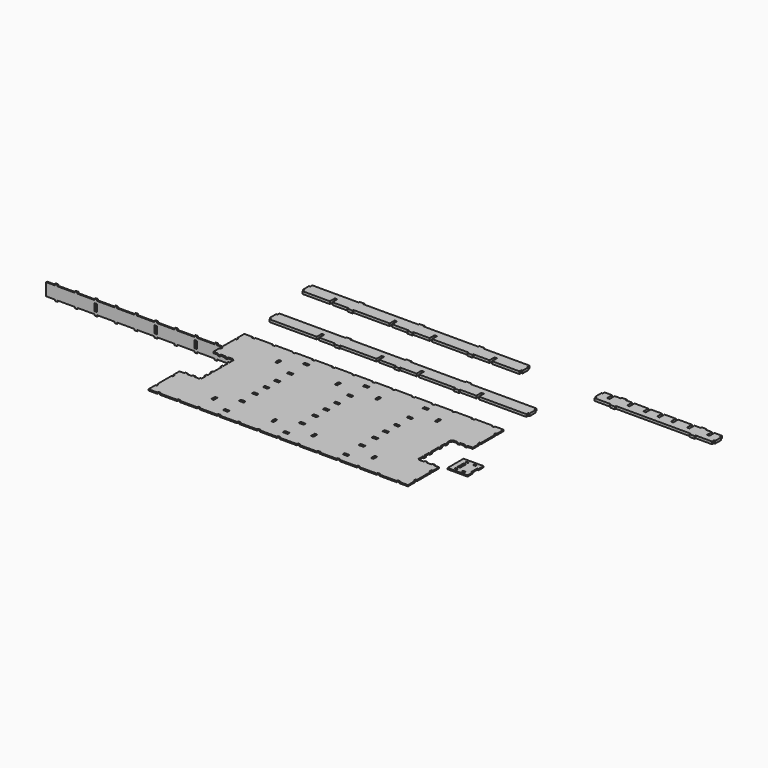
from build123d import *

# Parameters (mm, degrees)
F0_W      = 6.35
F0_H      = 12.192
F0_W_2    = 12.192
F0_H_2    = 6.35
F1_DEPTH  = 3.175
F3_DEPTH  = 6.35
F5_DEPTH  = 6.35
F7_DEPTH  = 6.35
F8_W      = 6.35
F8_H      = 3.175
F8_H_2    = 18.542
F9_DEPTH  = 3.175
F10_W     = 6.35
F10_H     = 18.542
F11_DEPTH = 3.175


with BuildPart() as f1:
    # F0 (on Top) → F1 (new body)
    with BuildSketch(Plane.XY):
        Polygon((0, -79.375), (0, -98.425), (12.7, -98.425), (12.7, -101.6), (19.05, -101.6), (19.05, -98.425), (31.75, -98.425), (31.75, -101.6), (38.1, -101.6), (38.1, -98.425), (50.8, -98.425), (50.8, -101.6), (53.975, -101.6), (53.975, -114.3), (50.8, -114.3), (50.8, -120.65), (53.975, -120.65), (53.975, -133.35), (50.8, -133.35), (50.8, -139.7), (53.975, -139.7), (53.975, -152.4), (53.975, -165.1), (50.8, -165.1), (50.8, -171.45), (53.975, -171.45), (53.975, -184.15), (50.8, -184.15), (50.8, -190.5), (53.975, -190.5), (53.975, -203.2), (50.8, -203.2), (50.8, -206.375), (38.1, -206.375), (38.1, -203.2), (31.75, -203.2), (31.75, -206.375), (19.05, -206.375), (19.05, -203.2), (12.7, -203.2), (12.7, -206.375), (0, -206.375), (0, -225.425), (3.175, -225.425), (3.175, -231.775), (0, -231.775), (0, -254), (0, -276.225), (3.175, -276.225), (3.175, -282.575), (0, -282.575), (0, -304.8), (22.225, -304.8), (22.225, -301.625), (28.575, -301.625), (28.575, -304.8), (50.8, -304.8), (73.025, -304.8), (73.025, -301.625), (79.375, -301.625), (79.375, -304.8), (101.6, -304.8), (123.825, -304.8), (123.825, -301.625), (130.175, -301.625), (130.175, -304.8), (152.4, -304.8), (174.625, -304.8), (174.625, -301.625), (180.975, -301.625), (180.975, -304.8), (203.2, -304.8), (225.425, -304.8), (225.425, -301.625), (231.775, -301.625), (231.775, -304.8), (254, -304.8), (276.225, -304.8), (276.225, -301.625), (282.575, -301.625), (282.575, -304.8), (304.8, -304.8), (327.025, -304.8), (327.025, -301.625), (333.375, -301.625), (333.375, -304.8), (355.6, -304.8), (377.825, -304.8), (377.825, -301.625), (384.175, -301.625), (384.175, -304.8), (406.4, -304.8), (428.625, -304.8), (428.625, -301.625), (434.975, -301.625), (434.975, -304.8), (457.2, -304.8), (479.425, -304.8), (479.425, -301.625), (485.775, -301.625), (485.775, -304.8), (508, -304.8), (530.225, -304.8), (530.225, -301.625), (536.575, -301.625), (536.575, -304.8), (558.8, -304.8), (581.025, -304.8), (581.025, -301.625), (587.375, -301.625), (587.375, -304.8), (609.6, -304.8), (631.825, -304.8), (631.825, -301.625), (638.175, -301.625), (638.175, -304.8), (660.4, -304.8), (660.4, -282.575), (657.225, -282.575), (657.225, -276.225), (660.4, -276.225), (660.4, -254), (660.4, -231.775), (657.225, -231.775), (657.225, -225.425), (660.4, -225.425), (660.4, -206.375), (647.7, -206.375), (647.7, -203.2), (641.35, -203.2), (641.35, -206.375), (628.65, -206.375), (628.65, -203.2), (622.3, -203.2), (622.3, -206.375), (609.6, -206.375), (609.6, -203.2), (606.425, -203.2), (606.425, -190.5), (609.6, -190.5), (609.6, -184.15), (606.425, -184.15), (606.425, -171.45), (609.6, -171.45), (609.6, -165.1), (606.425, -165.1), (606.425, -152.4), (606.425, -139.7), (609.6, -139.7), (609.6, -133.35), (606.425, -133.35), (606.425, -120.65), (609.6, -120.65), (609.6, -114.3), (606.425, -114.3), (606.425, -101.6), (609.6, -101.6), (609.6, -98.425), (622.3, -98.425), (622.3, -101.6), (628.65, -101.6), (628.65, -98.425), (641.35, -98.425), (641.35, -101.6), (647.7, -101.6), (647.7, -98.425), (660.4, -98.425), (660.4, -79.375), (657.225, -79.375), (657.225, -73.025), (660.4, -73.025), (660.4, -50.8), (660.4, -28.575), (657.225, -28.575), (657.225, -22.225), (660.4, -22.225), (660.4, 0), (638.175, 0), (638.175, -3.175), (631.825, -3.175), (631.825, 0), (609.6, 0), (587.375, 0), (587.375, -3.175), (581.025, -3.175), (581.025, 0), (558.8, 0), (536.575, 0), (536.575, -3.175), (530.225, -3.175), (530.225, 0), (508, 0), (485.775, 0), (485.775, -3.175), (479.425, -3.175), (479.425, 0), (457.2, 0), (434.975, 0), (434.975, -3.175), (428.625, -3.175), (428.625, 0), (406.4, 0), (384.175, 0), (384.175, -3.175), (377.825, -3.175), (377.825, 0), (355.6, 0), (333.375, 0), (333.375, -3.175), (327.025, -3.175), (327.025, 0), (304.8, 0), (282.575, 0), (282.575, -3.175), (276.225, -3.175), (276.225, 0), (254, 0), (231.775, 0), (231.775, -3.175), (225.425, -3.175), (225.425, 0), (203.2, 0), (180.975, 0), (180.975, -3.175), (174.625, -3.175), (174.625, 0), (152.4, 0), (130.175, 0), (130.175, -3.175), (123.825, -3.175), (123.825, 0), (101.6, 0), (79.375, 0), (79.375, -3.175), (73.025, -3.175), (73.025, 0), (50.8, 0), (28.575, 0), (28.575, -3.175), (22.225, -3.175), (22.225, 0), (0, 0), (0, -22.225), (3.175, -22.225), (3.175, -28.575), (0, -28.575), (0, -50.8), (0, -73.025), (3.175, -73.025), (3.175, -79.375), align=None)
        with Locations((127, -254)):
            Rectangle(F0_W, F0_H, mode=Mode.SUBTRACT)
        with Locations((177.8, -279.4)):
            Rectangle(F0_W_2, F0_H_2, mode=Mode.SUBTRACT)
        with Locations((279.4, -254)):
            Rectangle(F0_W, F0_H, mode=Mode.SUBTRACT)
        with Locations((177.8, -228.6)):
            Rectangle(F0_W_2, F0_H_2, mode=Mode.SUBTRACT)
        with Locations((177.8, -187.325001)):
            Rectangle(F0_W_2, F0_H_2, mode=Mode.SUBTRACT)
        with Locations((330.2, -279.4)):
            Rectangle(F0_W_2, F0_H_2, mode=Mode.SUBTRACT)
        with Locations((482.6, -279.4)):
            Rectangle(F0_W_2, F0_H_2, mode=Mode.SUBTRACT)
        with Locations((381, -254)):
            Rectangle(F0_W, F0_H, mode=Mode.SUBTRACT)
        with Locations((533.4, -254)):
            Rectangle(F0_W, F0_H, mode=Mode.SUBTRACT)
        with Locations((330.2, -228.6)):
            Rectangle(F0_W_2, F0_H_2, mode=Mode.SUBTRACT)
        with Locations((482.6, -228.6)):
            Rectangle(F0_W_2, F0_H_2, mode=Mode.SUBTRACT)
        with Locations((330.2, -187.325001)):
            Rectangle(F0_W_2, F0_H_2, mode=Mode.SUBTRACT)
        with Locations((482.6, -187.325001)):
            Rectangle(F0_W_2, F0_H_2, mode=Mode.SUBTRACT)
        with Locations((177.8, -152.4)):
            Rectangle(F0_W_2, F0_H_2, mode=Mode.SUBTRACT)
        with Locations((177.8, -117.475003)):
            Rectangle(F0_W_2, F0_H_2, mode=Mode.SUBTRACT)
        with Locations((127, -50.8)):
            Rectangle(F0_W, F0_H, mode=Mode.SUBTRACT)
        with Locations((177.8, -76.2)):
            Rectangle(F0_W_2, F0_H_2, mode=Mode.SUBTRACT)
        with Locations((279.408315, -51.765317)):
            Rectangle(F0_W, F0_H, mode=Mode.SUBTRACT)
        with Locations((177.8, -25.4)):
            Rectangle(F0_W_2, F0_H_2, mode=Mode.SUBTRACT)
        with Locations((330.2, -152.4)):
            Rectangle(F0_W_2, F0_H_2, mode=Mode.SUBTRACT)
        with Locations((330.2, -117.475003)):
            Rectangle(F0_W_2, F0_H_2, mode=Mode.SUBTRACT)
        with Locations((482.6, -152.4)):
            Rectangle(F0_W_2, F0_H_2, mode=Mode.SUBTRACT)
        with Locations((482.6, -117.475003)):
            Rectangle(F0_W_2, F0_H_2, mode=Mode.SUBTRACT)
        with Locations((330.2, -76.2)):
            Rectangle(F0_W_2, F0_H_2, mode=Mode.SUBTRACT)
        with Locations((381, -50.8)):
            Rectangle(F0_W, F0_H, mode=Mode.SUBTRACT)
        with Locations((482.6, -76.2)):
            Rectangle(F0_W_2, F0_H_2, mode=Mode.SUBTRACT)
        with Locations((330.2, -25.4)):
            Rectangle(F0_W_2, F0_H_2, mode=Mode.SUBTRACT)
        with Locations((482.6, -25.4)):
            Rectangle(F0_W_2, F0_H_2, mode=Mode.SUBTRACT)
        with Locations((533.4, -50.8)):
            Rectangle(F0_W, F0_H, mode=Mode.SUBTRACT)
    extrude(amount=F1_DEPTH)


with BuildPart() as f3:
    # F2 (on Top) → F3 (new body)
    with BuildSketch(Plane.XY):
        Polygon((3.175, 82.040687), (3.175, 75.690687), (123.825, 75.690687), (123.825, 91.565687), (130.175, 91.565687), (130.175, 75.690687), (171.45, 75.690687), (171.45, 72.515687), (184.15, 72.515687), (184.15, 75.690687), (276.225, 75.690687), (276.225, 91.565687), (282.575, 91.565687), (282.575, 75.690687), (323.85, 75.690687), (323.85, 72.515687), (336.55, 72.515687), (336.55, 75.690687), (377.825, 75.690687), (377.825, 91.565687), (384.175, 91.565687), (384.175, 75.690687), (476.25, 75.690687), (476.25, 72.515687), (488.95, 72.515687), (488.95, 75.690687), (530.225, 75.690687), (530.225, 91.565687), (536.575, 91.565687), (536.575, 75.690687), (657.225, 75.690687), (657.225, 82.040687), (660.408766, 82.040687), (660.408766, 101.090687), (657.225, 101.090687), (657.225, 107.440687), (488.95, 107.440687), (488.95, 110.615687), (476.25, 110.615687), (476.25, 107.440687), (336.55, 107.440687), (336.55, 110.615687), (323.85, 110.615687), (323.85, 107.440687), (184.15, 107.440687), (184.15, 110.615687), (171.45, 110.615687), (171.45, 107.440687), (3.175, 107.440687), (3.175, 101.090687), (0, 101.090687), (0, 82.040687), align=None)
    extrude(amount=F3_DEPTH)


with BuildPart() as f5:
    # F4 (on Top) → F5 (new body)
    with BuildSketch(Plane.XY):
        Polygon((96.410373, 246.01257), (96.410373, 242.83757), (-21.064627, 242.83757), (-21.064627, 236.48757), (-24.239627, 236.48757), (-24.239627, 217.43757), (-21.064627, 217.43757), (-21.064627, 211.08757), (48.785373, 211.08757), (48.785373, 226.96257), (55.135373, 226.96257), (55.135373, 211.08757), (96.410373, 211.08757), (96.410373, 207.91257), (109.110373, 207.91257), (109.110373, 211.08757), (201.185373, 211.08757), (201.185373, 226.96257), (207.535373, 226.96257), (207.535373, 211.08757), (248.810373, 211.08757), (248.810373, 207.91257), (261.510373, 207.91257), (261.510373, 211.08757), (302.785373, 211.08757), (302.785373, 226.96257), (309.135373, 226.96257), (309.135373, 211.08757), (401.210373, 211.08757), (401.210373, 207.91257), (413.910373, 207.91257), (413.910373, 211.08757), (455.185373, 211.08757), (455.185373, 226.96257), (461.535373, 226.96257), (461.535373, 211.08757), (531.385373, 211.08757), (531.385373, 217.43757), (534.560373, 217.43757), (534.560373, 236.48757), (531.385373, 236.48757), (531.385373, 242.83757), (413.910373, 242.83757), (413.910373, 246.01257), (401.210373, 246.01257), (401.210373, 242.83757), (261.510373, 242.83757), (261.510373, 246.01257), (248.810373, 246.01257), (248.810373, 242.83757), (109.110373, 242.83757), (109.110373, 246.01257), align=None)
    extrude(amount=F5_DEPTH)


with BuildPart() as f7:
    # F6 (on Top) → F7 (new body)
    with BuildSketch(Plane.XY):
        Polygon((761.759856, 249.198178), (761.759856, 246.023178), (745.884856, 246.023178), (745.884856, 230.148178), (739.534856, 230.148178), (739.534856, 246.023178), (720.484856, 246.023178), (720.484856, 239.673178), (717.309856, 239.673178), (717.309856, 220.623178), (720.484856, 220.623178), (720.484856, 214.273178), (761.759856, 214.273185), (761.759856, 211.098185), (774.459856, 211.098185), (774.459856, 214.273185), (964.959856, 214.273185), (964.959856, 211.098185), (977.659856, 211.098185), (977.659856, 214.273185), (1018.934856, 214.273178), (1018.934856, 220.623178), (1022.109856, 220.623178), (1022.109856, 239.673178), (1018.934866, 239.673178), (1018.934866, 246.023178), (999.884856, 246.023178), (999.884856, 230.148178), (993.534856, 230.148178), (993.534856, 246.023178), (977.659856, 246.023178), (977.659856, 249.198178), (964.959856, 249.198178), (964.959856, 246.023178), (949.084856, 246.023178), (949.084856, 230.148178), (942.734856, 230.148178), (942.734856, 246.023178), (907.809856, 246.023178), (907.809856, 230.148178), (901.459856, 230.148178), (901.459856, 246.023178), (872.884856, 246.023178), (872.884856, 230.148178), (866.534856, 230.148178), (866.534856, 246.023178), (837.959856, 246.023178), (837.959856, 230.148178), (831.609856, 230.148178), (831.609856, 246.023178), (796.684856, 246.023178), (796.684856, 230.148178), (790.334856, 230.148178), (790.334856, 246.023178), (774.459856, 246.023178), (774.459856, 249.198178), align=None)
    extrude(amount=F7_DEPTH)


with BuildPart() as f9:
    # F8 (on Top) → F9 (new body)
    with BuildSketch(Plane.XY):
        Polygon((726.645827, -147.160034), (675.845827, -147.160034), (675.845827, -197.960034), (726.645827, -197.960034), (726.645827, -181.831034), (723.470827, -181.831034), (723.470827, -163.289034), (726.645827, -163.289034), align=None)
        with Locations((691.720827, -190.022534)):
            Rectangle(F8_W, F8_H, mode=Mode.SUBTRACT)
        with Locations((691.720843, -172.560034)):
            Rectangle(F8_W, F8_H_2, mode=Mode.SUBTRACT)
        with Locations((710.770827, -190.022534)):
            Rectangle(F8_W, F8_H, mode=Mode.SUBTRACT)
        with Locations((691.720827, -155.097534)):
            Rectangle(F8_W, F8_H, mode=Mode.SUBTRACT)
        with Locations((710.770827, -155.097534)):
            Rectangle(F8_W, F8_H, mode=Mode.SUBTRACT)
    extrude(amount=F9_DEPTH)


with BuildPart() as f11:
    # F10 (on Front) → F11 (new body)
    with BuildSketch(Plane.XZ):
        Polygon((-428.999945, -42.87017), (-451.224945, -42.87017), (-473.449945, -42.87017), (-473.449945, -39.69517), (-479.799945, -39.69517), (-479.799945, -42.87017), (-502.024945, -42.87017), (-502.024945, -74.62017), (-479.799945, -74.62017), (-479.799945, -77.79517), (-473.449945, -77.79517), (-473.449945, -74.62017), (-451.224945, -74.62017), (-428.999945, -74.62017), (-428.999945, -77.79517), (-422.649945, -77.79517), (-422.649945, -74.62017), (-400.424945, -74.62017), (-378.199945, -74.62017), (-378.199945, -77.79517), (-371.849945, -77.79517), (-371.849945, -74.62017), (-349.624945, -74.62017), (-327.399945, -74.62017), (-327.399945, -77.79517), (-321.049945, -77.79517), (-321.049945, -74.62017), (-298.824945, -74.62017), (-276.599945, -74.62017), (-276.599945, -77.79517), (-270.249945, -77.79517), (-270.249945, -74.62017), (-248.024945, -74.62017), (-225.799945, -74.62017), (-225.799945, -77.79517), (-219.449945, -77.79517), (-219.449945, -74.62017), (-197.224945, -74.62017), (-174.999945, -74.62017), (-174.999945, -77.79517), (-168.649945, -77.79517), (-168.649945, -74.62017), (-146.424945, -74.62017), (-124.199945, -74.62017), (-124.199945, -77.79517), (-117.849945, -77.79517), (-117.849945, -74.62017), (-95.624945, -74.62017), (-73.399945, -74.62017), (-73.399945, -77.79517), (-67.049945, -77.79517), (-67.049945, -74.62017), (-44.824945, -74.62017), (-22.599945, -74.62017), (-22.599945, -77.79517), (-16.249945, -77.79517), (-16.249945, -74.62017), (5.975055, -74.62017), (28.200055, -74.62017), (28.200055, -77.79517), (34.550055, -77.79517), (34.550055, -74.62017), (56.775055, -74.62017), (79.000055, -74.62017), (79.000055, -77.79517), (85.350055, -77.79517), (85.350055, -74.62017), (107.575055, -74.62017), (129.800055, -74.62017), (129.800055, -77.79517), (136.150055, -77.79517), (136.150055, -74.62017), (158.375055, -74.62017), (158.375055, -42.87017), (136.150055, -42.87017), (136.150055, -39.69517), (129.800055, -39.69517), (129.800055, -42.87017), (107.575055, -42.87017), (85.350055, -42.87017), (85.350055, -39.69517), (79.000055, -39.69517), (79.000055, -42.87017), (56.775055, -42.87017), (34.550055, -42.87017), (34.550055, -39.69517), (28.200055, -39.69517), (28.200055, -42.87017), (5.975055, -42.87017), (-16.249945, -42.87017), (-16.249945, -39.69517), (-22.599945, -39.69517), (-22.599945, -42.87017), (-44.824945, -42.87017), (-67.049945, -42.87017), (-67.049945, -39.69517), (-73.399945, -39.69517), (-73.399945, -42.87017), (-95.624945, -42.87017), (-117.849945, -42.87017), (-117.849945, -39.69517), (-124.199945, -39.69517), (-124.199945, -42.87017), (-146.424945, -42.87017), (-168.649945, -42.87017), (-168.649945, -39.69517), (-174.999945, -39.69517), (-174.999945, -42.87017), (-197.224945, -42.87017), (-219.449945, -42.87017), (-219.449945, -39.69517), (-225.799945, -39.69517), (-225.799945, -42.87017), (-248.024945, -42.87017), (-270.249945, -42.87017), (-270.249945, -39.69517), (-276.599945, -39.69517), (-276.599945, -42.87017), (-298.824945, -42.87017), (-321.049945, -42.87017), (-321.049945, -39.69517), (-327.399945, -39.69517), (-327.399945, -42.87017), (-349.624945, -42.87017), (-371.849945, -42.87017), (-371.849945, -39.69517), (-378.199945, -39.69517), (-378.199945, -42.87017), (-400.424945, -42.87017), (-422.649945, -42.87017), (-422.649945, -39.69517), (-428.999945, -39.69517), align=None)
        with Locations((-375.024945, -58.745171)):
            Rectangle(F10_W, F10_H, mode=Mode.SUBTRACT)
        with Locations((-222.624945, -58.745173)):
            Rectangle(F10_W, F10_H, mode=Mode.SUBTRACT)
        with Locations((31.375055, -58.745171)):
            Rectangle(F10_W, F10_H, mode=Mode.SUBTRACT)
        with Locations((-121.024945, -58.74517)):
            Rectangle(F10_W, F10_H, mode=Mode.SUBTRACT)
    extrude(amount=F11_DEPTH)


solid = Compound([f1.part, f3.part, f5.part, f7.part, f9.part, f11.part])
